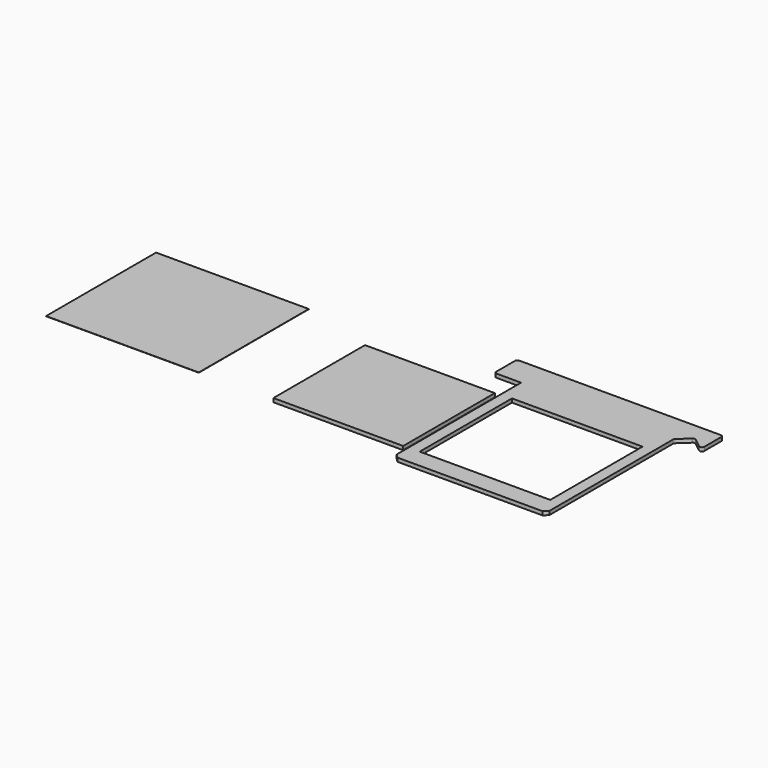
from build123d import *

# Parameters (mm, degrees)
F0_W     = 171
F0_H     = 151
F1_DEPTH = 2.45
F2_R     = 3
F3_R     = 3
F4_SIZE  = 5
F5_W     = 170
F5_H     = 150
F6_DEPTH = 2.45
F7_W     = 200
F7_H     = 180
F8_DEPTH = 0.15


with BuildPart() as f1:
    # F0 (on Top) → F1 (new body, symmetric)
    with BuildSketch(Plane.XY):
        Polygon((-61.237101, 42.792188), (-61.237101, -165.707812), (138.762899, -165.707812), (138.762899, 42.792188), (154.762899, 57.625629), (173.762899, 42.792188), (173.762899, 79.792188), (-96.237101, 79.792188), (-96.237101, 42.792188), align=None)
        with Locations((38.762899, -65.707812)):
            Rectangle(F0_W, F0_H, mode=Mode.SUBTRACT)
    extrude(amount=F1_DEPTH, both=True)

    # F2
    f2_edges = [f1.edges().sort_by_distance(p)[0] for p in [
        (-96.237101, 79.792188, 0),
        (173.762899, 79.792188, 0),
        (173.762899, 42.792188, 0),
        (138.762899, 42.792188, 0),
        (154.762899, 57.625629, 0),
    ]]
    fillet(f2_edges, radius=F2_R)

    # F3
    f3_edges = [f1.edges().sort_by_distance(p)[0] for p in [
        (-96.237101, 42.792188, 0),
    ]]
    fillet(f3_edges, radius=F3_R)

    # F4
    f4_edges = [f1.edges().sort_by_distance(p)[0] for p in [
        (-61.237101, -165.707812, 0),
        (138.762899, -165.707812, 0),
    ]]
    chamfer(f4_edges, length=F4_SIZE)


with BuildPart() as f6:
    # F5 (on Top) → F6 (new body, symmetric)
    with BuildSketch(Plane.XY):
        with Locations((-152.746104, -66.963842)):
            Rectangle(F5_W, F5_H)
    extrude(amount=F6_DEPTH, both=True)


with BuildPart() as f8:
    # F7 (on Top) → F8 (new body, symmetric)
    with BuildSketch(Plane.XY):
        with Locations((-435.381746, -51.934633)):
            Rectangle(F7_W, F7_H)
    extrude(amount=F8_DEPTH, both=True)


solid = Compound([f1.part, f6.part, f8.part])
